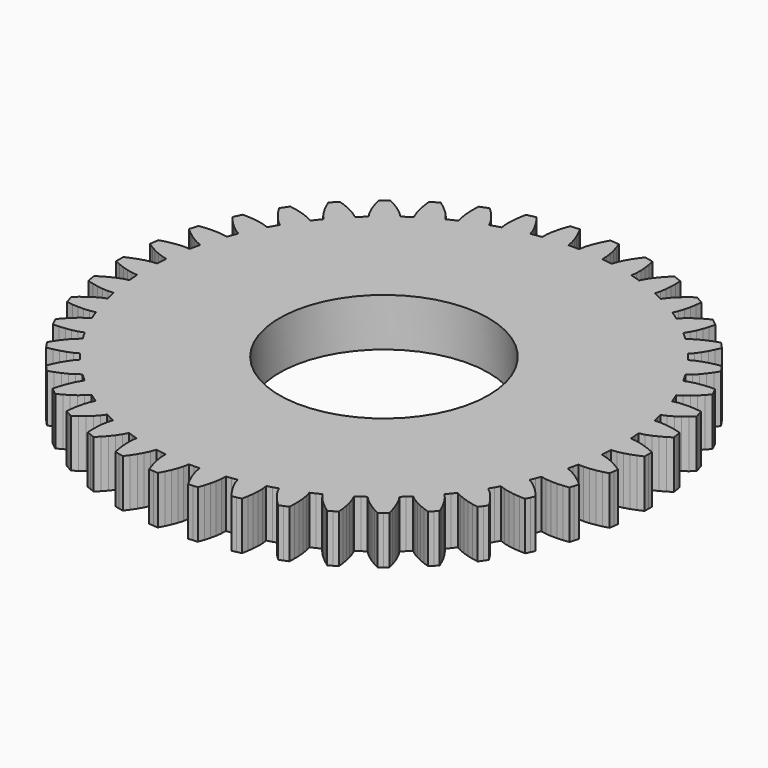
from build123d import *

# Parameters (mm, degrees)
F1_DEPTH = 2
F2_R     = 4.35
F3_DEPTH = 25


with BuildPart() as f1:
    # F0 (on Top) → F1 (new body)
    with BuildSketch(Plane.XY):
        Polygon((9.828275, -0.9595), (9.847387, -0.73796), (9.861507, -0.516046), (10.08792, -0.493833), (10.31543, -0.444453), (10.543302, -0.375881), (10.771073, -0.290896), (10.998341, -0.191021), (11, 0), (10.998341, 0.191021), (10.771073, 0.290896), (10.543302, 0.375881), (10.31543, 0.444453), (10.08792, 0.493833), (9.861507, 0.516046), (9.847387, 0.73796), (9.828275, 0.9595), (10.048848, 1.01521), (10.266457, 1.097947), (10.481564, 1.199715), (10.694124, 1.317698), (10.903969, 1.450331), (10.877139, 1.639465), (10.847029, 1.828105), (10.607413, 1.892992), (10.36952, 1.94308), (10.133973, 1.976923), (9.901644, 1.991843), (9.67445, 1.980063), (9.627413, 2.197394), (9.575495, 2.413611), (9.785302, 2.501574), (9.988149, 2.61582), (10.185685, 2.748511), (10.378287, 2.896857), (10.56602, 3.059284), (10.511301, 3.242307), (10.453412, 3.424352), (10.206801, 3.452802), (9.9641, 3.466874), (9.726139, 3.465233), (9.494182, 3.44536), (9.271281, 3.399849), (9.192378, 3.607743), (9.108815, 3.813806), (9.303168, 3.932057), (9.486722, 4.075259), (9.662275, 4.23591), (9.830616, 4.411305), (9.992044, 4.599898), (9.910658, 4.772721), (9.826282, 4.944105), (9.578186, 4.935482), (9.336098, 4.913224), (9.10104, 4.876135), (8.874636, 4.821912), (8.661007, 4.743689), (8.552001, 4.9375), (8.438658, 5.128808), (8.613216, 5.274704), (8.773377, 5.443664), (8.923026, 5.628686), (9.063346, 5.827211), (9.194862, 6.037758), (9.088627, 6.196521), (8.97965, 6.353415), (8.73561, 6.307911), (8.499543, 6.249821), (8.272639, 6.178112), (8.056845, 6.090751), (7.857261, 5.981562), (7.720586, 6.156962), (7.579996, 6.32924), (7.73086, 6.499523), (7.864049, 6.690467), (7.984451, 6.895726), (8.093615, 7.112948), (8.192282, 7.340744), (8.063571, 7.4819), (7.932428, 7.6208), (7.697895, 7.539432), (7.473123, 7.446807), (7.25944, 7.342081), (7.059077, 7.223533), (6.877996, 7.085817), (6.716706, 7.238887), (6.55201, 7.388287), (6.675809, 7.579154), (6.779052, 7.787816), (6.867517, 8.008727), (6.943086, 8.239793), (7.0067, 8.47975), (6.858388, 8.600146), (6.708008, 8.717949), (6.488222, 8.602535), (6.279766, 8.477443), (6.084078, 8.342039), (5.903621, 8.194953), (5.745088, 8.031786), (5.562786, 8.159108), (5.377662, 8.282293), (5.471632, 8.489479), (5.542622, 8.711198), (5.597173, 8.942827), (5.63746, 9.182574), (5.664599, 9.429333), (5.5, 9.526279), (5.333742, 9.620353), (5.133613, 9.473471), (4.946128, 9.318708), (4.772808, 9.15565), (4.616288, 8.983311), (4.483845, 8.798338), (4.284602, 8.897068), (4.083186, 8.991285), (4.145227, 9.210163), (4.182379, 9.439986), (4.201798, 9.677158), (4.205902, 9.920232), (4.195961, 10.16828), (4.018751, 10.239611), (3.840329, 10.307855), (3.664327, 10.132785), (3.502003, 9.951808), (3.35492, 9.764739), (3.225835, 9.570997), (3.12244, 9.368351), (2.910707, 9.436281), (2.697499, 9.499428), (2.726225, 9.725107), (2.728708, 9.9579), (2.712562, 10.195318), (2.680392, 10.436289), (2.633592, 10.680084), (2.44773, 10.724207), (2.26113, 10.765096), (2.113186, 10.56575), (1.979648, 10.362601), (1.86209, 10.1557), (1.763322, 9.944883), (1.691284, 9.729089), (1.471792, 9.764704), (1.251554, 9.795368), (1.246323, 10.022808), (1.214083, 10.253372), (1.162732, 10.485731), (1.095006, 10.719216), (1.012394, 10.953313), (0.822031, 10.969242), (0.631421, 10.981863), (0.51484, 10.762693), (0.413072, 10.54191), (0.327663, 10.3198), (0.261419, 10.096616), (0.222349, 9.872496), (0, 9.875), (-0.222349, 9.872496), (-0.261419, 10.096616), (-0.327663, 10.3198), (-0.413072, 10.54191), (-0.51484, 10.762693), (-0.631421, 10.981863), (-0.822031, 10.969242), (-1.012394, 10.953313), (-1.095006, 10.719216), (-1.162732, 10.485731), (-1.214083, 10.253372), (-1.246323, 10.022808), (-1.251554, 9.795368), (-1.471792, 9.764704), (-1.691284, 9.729089), (-1.763322, 9.944883), (-1.86209, 10.1557), (-1.979648, 10.362601), (-2.113186, 10.56575), (-2.26113, 10.765096), (-2.44773, 10.724207), (-2.633592, 10.680084), (-2.680392, 10.436289), (-2.712562, 10.195318), (-2.728708, 9.9579), (-2.726225, 9.725107), (-2.697499, 9.499428), (-2.910707, 9.436281), (-3.12244, 9.368351), (-3.225835, 9.570997), (-3.35492, 9.764739), (-3.502003, 9.951808), (-3.664327, 10.132785), (-3.840329, 10.307855), (-4.018751, 10.239611), (-4.195961, 10.16828), (-4.205902, 9.920232), (-4.201798, 9.677158), (-4.182379, 9.439986), (-4.145227, 9.210163), (-4.083186, 8.991285), (-4.284602, 8.897068), (-4.483845, 8.798338), (-4.616288, 8.983311), (-4.772808, 9.15565), (-4.946128, 9.318708), (-5.133613, 9.473471), (-5.333742, 9.620353), (-5.5, 9.526279), (-5.664599, 9.429333), (-5.63746, 9.182574), (-5.597173, 8.942827), (-5.542622, 8.711198), (-5.471632, 8.489479), (-5.377662, 8.282293), (-5.562786, 8.159108), (-5.745088, 8.031786), (-5.903621, 8.194953), (-6.084078, 8.342039), (-6.279766, 8.477443), (-6.488222, 8.602535), (-6.708008, 8.717949), (-6.858388, 8.600146), (-7.0067, 8.47975), (-6.943086, 8.239793), (-6.867517, 8.008727), (-6.779052, 7.787816), (-6.675809, 7.579154), (-6.55201, 7.388287), (-6.716706, 7.238887), (-6.877996, 7.085817), (-7.059077, 7.223533), (-7.25944, 7.342081), (-7.473123, 7.446807), (-7.697895, 7.539432), (-7.932428, 7.6208), (-8.063571, 7.4819), (-8.192282, 7.340744), (-8.093615, 7.112948), (-7.984451, 6.895726), (-7.864049, 6.690467), (-7.73086, 6.499523), (-7.579996, 6.32924), (-7.720586, 6.156962), (-7.857261, 5.981562), (-8.056845, 6.090751), (-8.272639, 6.178112), (-8.499543, 6.249821), (-8.73561, 6.307911), (-8.97965, 6.353415), (-9.088627, 6.196521), (-9.194862, 6.037758), (-9.063346, 5.827211), (-8.923026, 5.628686), (-8.773377, 5.443664), (-8.613216, 5.274704), (-8.438658, 5.128808), (-8.552001, 4.9375), (-8.661007, 4.743689), (-8.874636, 4.821912), (-9.10104, 4.876135), (-9.336098, 4.913224), (-9.578186, 4.935482), (-9.826282, 4.944105), (-9.910658, 4.772721), (-9.992044, 4.599898), (-9.830616, 4.411305), (-9.662275, 4.23591), (-9.486722, 4.075259), (-9.303168, 3.932057), (-9.108815, 3.813806), (-9.192378, 3.607743), (-9.271281, 3.399849), (-9.494182, 3.44536), (-9.726139, 3.465233), (-9.9641, 3.466874), (-10.206801, 3.452802), (-10.453412, 3.424352), (-10.511301, 3.242307), (-10.56602, 3.059284), (-10.378287, 2.896857), (-10.185685, 2.748511), (-9.988149, 2.61582), (-9.785302, 2.501574), (-9.575495, 2.413611), (-9.627413, 2.197394), (-9.67445, 1.980063), (-9.901644, 1.991843), (-10.133973, 1.976923), (-10.36952, 1.94308), (-10.607413, 1.892992), (-10.847029, 1.828105), (-10.877139, 1.639465), (-10.903969, 1.450331), (-10.694124, 1.317698), (-10.481564, 1.199715), (-10.266457, 1.097947), (-10.048848, 1.01521), (-9.828275, 0.9595), (-9.847387, 0.73796), (-9.861507, 0.516046), (-10.08792, 0.493833), (-10.31543, 0.444453), (-10.543302, 0.375881), (-10.771073, 0.290896), (-10.998341, 0.191021), (-11, 0), (-10.998341, -0.191021), (-10.771073, -0.290896), (-10.543302, -0.375881), (-10.31543, -0.444453), (-10.08792, -0.493833), (-9.861507, -0.516046), (-9.847387, -0.73796), (-9.828275, -0.9595), (-10.048848, -1.01521), (-10.266457, -1.097947), (-10.481564, -1.199715), (-10.694124, -1.317698), (-10.903969, -1.450331), (-10.877139, -1.639465), (-10.847029, -1.828105), (-10.607413, -1.892992), (-10.36952, -1.94308), (-10.133973, -1.976923), (-9.901644, -1.991843), (-9.67445, -1.980063), (-9.627413, -2.197394), (-9.575495, -2.413611), (-9.785302, -2.501574), (-9.988149, -2.61582), (-10.185685, -2.748511), (-10.378287, -2.896857), (-10.56602, -3.059284), (-10.511301, -3.242307), (-10.453412, -3.424352), (-10.206801, -3.452802), (-9.9641, -3.466874), (-9.726139, -3.465233), (-9.494182, -3.44536), (-9.271281, -3.399849), (-9.192378, -3.607743), (-9.108815, -3.813806), (-9.303168, -3.932057), (-9.486722, -4.075259), (-9.662275, -4.23591), (-9.830616, -4.411305), (-9.992044, -4.599898), (-9.910658, -4.772721), (-9.826282, -4.944105), (-9.578186, -4.935482), (-9.336098, -4.913224), (-9.10104, -4.876135), (-8.874636, -4.821912), (-8.661007, -4.743689), (-8.552001, -4.9375), (-8.438658, -5.128808), (-8.613216, -5.274704), (-8.773377, -5.443664), (-8.923026, -5.628686), (-9.063346, -5.827211), (-9.194862, -6.037758), (-9.088627, -6.196521), (-8.97965, -6.353415), (-8.73561, -6.307911), (-8.499543, -6.249821), (-8.272639, -6.178112), (-8.056845, -6.090751), (-7.857261, -5.981562), (-7.720586, -6.156962), (-7.579996, -6.32924), (-7.73086, -6.499523), (-7.864049, -6.690467), (-7.984451, -6.895726), (-8.093615, -7.112948), (-8.192282, -7.340744), (-8.063571, -7.4819), (-7.932428, -7.6208), (-7.697895, -7.539432), (-7.473123, -7.446807), (-7.25944, -7.342081), (-7.059077, -7.223533), (-6.877996, -7.085817), (-6.716706, -7.238887), (-6.55201, -7.388287), (-6.675809, -7.579154), (-6.779052, -7.787816), (-6.867517, -8.008727), (-6.943086, -8.239793), (-7.0067, -8.47975), (-6.858388, -8.600146), (-6.708008, -8.717949), (-6.488222, -8.602535), (-6.279766, -8.477443), (-6.084078, -8.342039), (-5.903621, -8.194953), (-5.745088, -8.031786), (-5.562786, -8.159108), (-5.377662, -8.282293), (-5.471632, -8.489479), (-5.542622, -8.711198), (-5.597173, -8.942827), (-5.63746, -9.182574), (-5.664599, -9.429333), (-5.5, -9.526279), (-5.333742, -9.620353), (-5.133613, -9.473471), (-4.946128, -9.318708), (-4.772808, -9.15565), (-4.616288, -8.983311), (-4.483845, -8.798338), (-4.284602, -8.897068), (-4.083186, -8.991285), (-4.145227, -9.210163), (-4.182379, -9.439986), (-4.201798, -9.677158), (-4.205902, -9.920232), (-4.195961, -10.16828), (-4.018751, -10.239611), (-3.840329, -10.307855), (-3.664327, -10.132785), (-3.502003, -9.951808), (-3.35492, -9.764739), (-3.225835, -9.570997), (-3.12244, -9.368351), (-2.910707, -9.436281), (-2.697499, -9.499428), (-2.726225, -9.725107), (-2.728708, -9.9579), (-2.712562, -10.195318), (-2.680392, -10.436289), (-2.633592, -10.680084), (-2.44773, -10.724207), (-2.26113, -10.765096), (-2.113186, -10.56575), (-1.979648, -10.362601), (-1.86209, -10.1557), (-1.763322, -9.944883), (-1.691284, -9.729089), (-1.471792, -9.764704), (-1.251554, -9.795368), (-1.246323, -10.022808), (-1.214083, -10.253372), (-1.162732, -10.485731), (-1.095006, -10.719216), (-1.012394, -10.953313), (-0.822031, -10.969242), (-0.631421, -10.981863), (-0.51484, -10.762693), (-0.413072, -10.54191), (-0.327663, -10.3198), (-0.261419, -10.096616), (-0.222349, -9.872496), (0, -9.875), (0.222349, -9.872496), (0.261419, -10.096616), (0.327663, -10.3198), (0.413072, -10.54191), (0.51484, -10.762693), (0.631421, -10.981863), (0.822031, -10.969242), (1.012394, -10.953313), (1.095006, -10.719216), (1.162732, -10.485731), (1.214083, -10.253372), (1.246323, -10.022808), (1.251554, -9.795368), (1.471792, -9.764704), (1.691284, -9.729089), (1.763322, -9.944883), (1.86209, -10.1557), (1.979648, -10.362601), (2.113186, -10.56575), (2.26113, -10.765096), (2.44773, -10.724207), (2.633592, -10.680084), (2.680392, -10.436289), (2.712562, -10.195318), (2.728708, -9.9579), (2.726225, -9.725107), (2.697499, -9.499428), (2.910707, -9.436281), (3.12244, -9.368351), (3.225835, -9.570997), (3.35492, -9.764739), (3.502003, -9.951808), (3.664327, -10.132785), (3.840329, -10.307855), (4.018751, -10.239611), (4.195961, -10.16828), (4.205902, -9.920232), (4.201798, -9.677158), (4.182379, -9.439986), (4.145227, -9.210163), (4.083186, -8.991285), (4.284602, -8.897068), (4.483845, -8.798338), (4.616288, -8.983311), (4.772808, -9.15565), (4.946128, -9.318708), (5.133613, -9.473471), (5.333742, -9.620353), (5.5, -9.526279), (5.664599, -9.429333), (5.63746, -9.182574), (5.597173, -8.942827), (5.542622, -8.711198), (5.471632, -8.489479), (5.377662, -8.282293), (5.562786, -8.159108), (5.745088, -8.031786), (5.903621, -8.194953), (6.084078, -8.342039), (6.279766, -8.477443), (6.488222, -8.602535), (6.708008, -8.717949), (6.858388, -8.600146), (7.0067, -8.47975), (6.943086, -8.239793), (6.867517, -8.008727), (6.779052, -7.787816), (6.675809, -7.579154), (6.55201, -7.388287), (6.716706, -7.238887), (6.877996, -7.085817), (7.059077, -7.223533), (7.25944, -7.342081), (7.473123, -7.446807), (7.697895, -7.539432), (7.932428, -7.6208), (8.063571, -7.4819), (8.192282, -7.340744), (8.093615, -7.112948), (7.984451, -6.895726), (7.864049, -6.690467), (7.73086, -6.499523), (7.579996, -6.32924), (7.720586, -6.156962), (7.857261, -5.981562), (8.056845, -6.090751), (8.272639, -6.178112), (8.499543, -6.249821), (8.73561, -6.307911), (8.97965, -6.353415), (9.088627, -6.196521), (9.194862, -6.037758), (9.063346, -5.827211), (8.923026, -5.628686), (8.773377, -5.443664), (8.613216, -5.274704), (8.438658, -5.128808), (8.552001, -4.9375), (8.661007, -4.743689), (8.874636, -4.821912), (9.10104, -4.876135), (9.336098, -4.913224), (9.578186, -4.935482), (9.826282, -4.944105), (9.910658, -4.772721), (9.992044, -4.599898), (9.830616, -4.411305), (9.662275, -4.23591), (9.486722, -4.075259), (9.303168, -3.932057), (9.108815, -3.813806), (9.192378, -3.607743), (9.271281, -3.399849), (9.494182, -3.44536), (9.726139, -3.465233), (9.9641, -3.466874), (10.206801, -3.452802), (10.453412, -3.424352), (10.511301, -3.242307), (10.56602, -3.059284), (10.378287, -2.896857), (10.185685, -2.748511), (9.988149, -2.61582), (9.785302, -2.501574), (9.575495, -2.413611), (9.627413, -2.197394), (9.67445, -1.980063), (9.901644, -1.991843), (10.133973, -1.976923), (10.36952, -1.94308), (10.607413, -1.892992), (10.847029, -1.828105), (10.877139, -1.639465), (10.903969, -1.450331), (10.694124, -1.317698), (10.481564, -1.199715), (10.266457, -1.097947), (10.048848, -1.01521), align=None)
    extrude(amount=F1_DEPTH)

    # F2 (on face) → F3 (cut)
    with BuildSketch(Plane.XY.offset(2)):
        Circle(F2_R)
    extrude(amount=-F3_DEPTH, mode=Mode.SUBTRACT)


solid = f1.part
